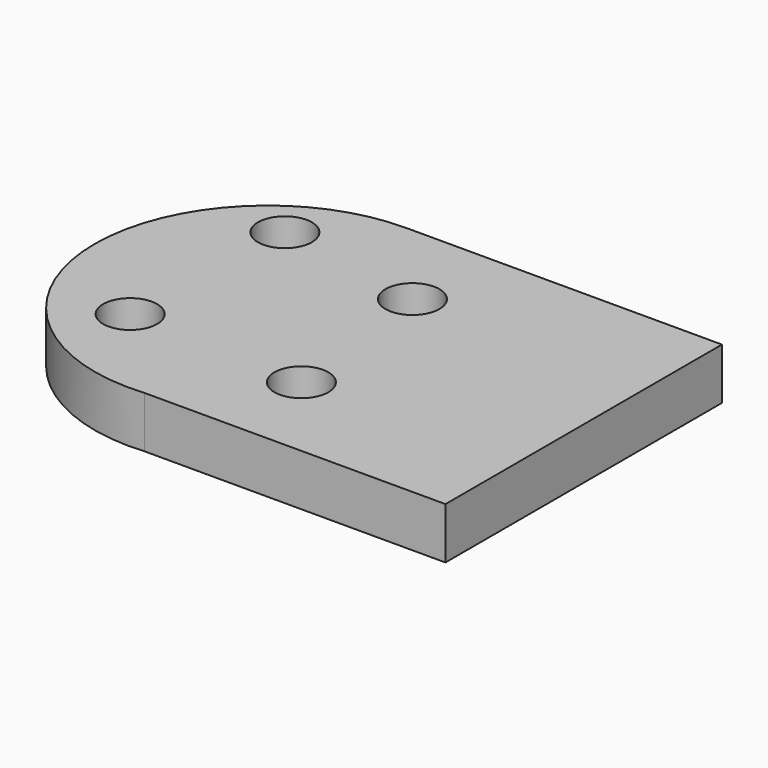
from build123d import *

# Parameters (mm, degrees)
F0_R     = 2
F1_DEPTH = 3.81


with BuildPart() as f1:
    # F0 (on Top) → F1 (new body)
    with BuildSketch(Plane.XY):
        with BuildLine():
            Line((-10.667235, 38.528163), (-34.061728, 38.528163))
            ThreePointArc((-34.061728, 38.528163), (-46.877125, 25.155703), (-32.971794, 12.920554))
            Line((-32.971794, 12.920554), (-10.667235, 12.920554))
            Line((-10.667235, 12.920554), (-10.667235, 38.528163))
        make_face()
        with Locations((-39.792872, 20.119574)):
            Circle(F0_R, mode=Mode.SUBTRACT)
        with Locations((-26.717832, 19.635454)):
            Circle(F0_R, mode=Mode.SUBTRACT)
        with Locations((-39.206085, 33.717473)):
            Circle(F0_R, mode=Mode.SUBTRACT)
        with Locations((-28.210036, 31.790213)):
            Circle(F0_R, mode=Mode.SUBTRACT)
    extrude(amount=F1_DEPTH)


solid = f1.part
